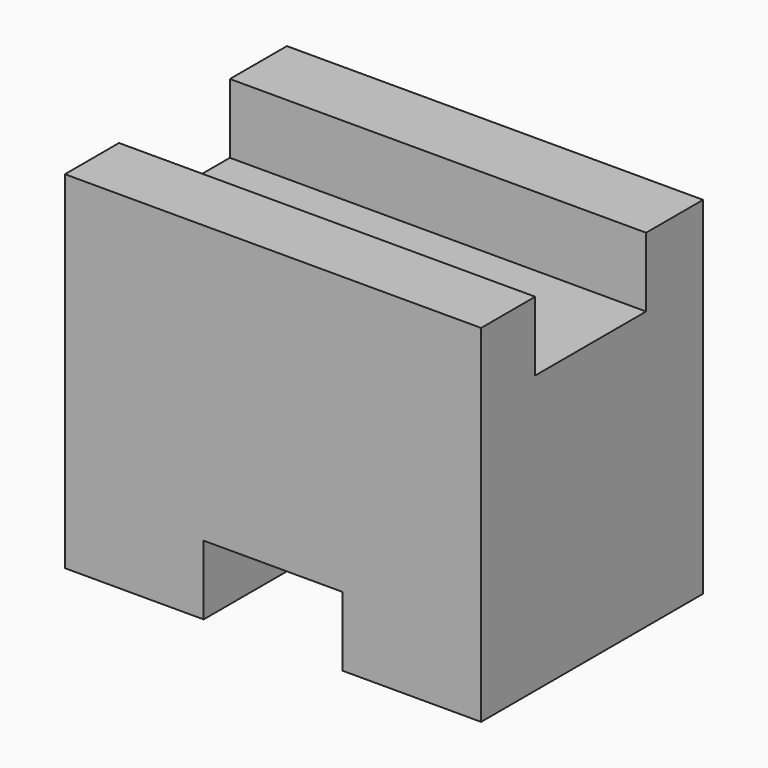
from build123d import *

# Parameters (mm, degrees)
F0_W     = 38.1
F0_H     = 31.75
F1_DEPTH = 25.4
F2_W     = 38.1
F2_H     = 12.69017
F3_DEPTH = 6.35
F4_W     = 12.7
F4_H     = 6.35
F5_DEPTH = 25.4


with BuildPart() as f1:
    # F0 (on Front) → F1 (new body)
    with BuildSketch(Plane.XZ):
        with Locations((-4.222617, 15.875)):
            Rectangle(F0_W, F0_H)
    extrude(amount=-F1_DEPTH)

    # F2 (on face) → F3 (cut)
    with BuildSketch(Plane.XY.offset(31.75)):
        with Locations((-4.222617, 12.535416)):
            Rectangle(F2_W, F2_H)
    extrude(amount=-F3_DEPTH, mode=Mode.SUBTRACT)

    # F4 (on face) → F5 (cut)
    with BuildSketch(Plane.XZ):
        with Locations((-4.222617, 3.175)):
            Rectangle(F4_W, F4_H)
    extrude(amount=-F5_DEPTH, mode=Mode.SUBTRACT)


solid = f1.part
